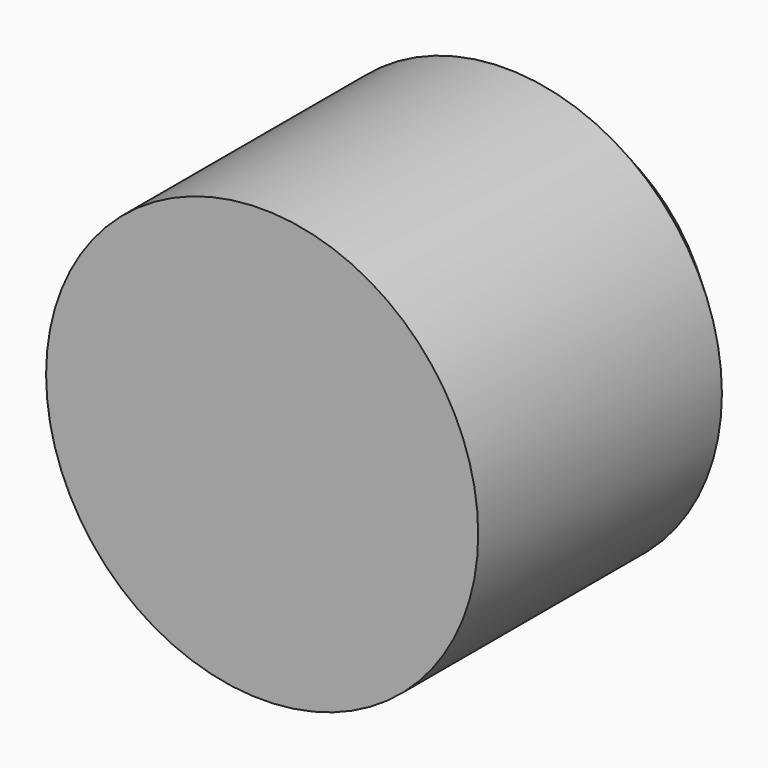
from build123d import *

# Parameters (mm, degrees)
F0_R     = 21.799109
F1_DEPTH = 35.814
F2_SIZE  = 5.08


with BuildPart() as f1:
    # F0 (on Front) → F1 (new body)
    with BuildSketch(Plane.XZ):
        with Locations((-4.767094, 9.732759)):
            Circle(F0_R)
    extrude(amount=-F1_DEPTH)

    # F2
    f2_edges = [f1.edges().sort_by_distance(p)[0] for p in [
        (-26.566203, 35.814, 9.732759),
    ]]
    chamfer(f2_edges, length=F2_SIZE)


solid = f1.part
